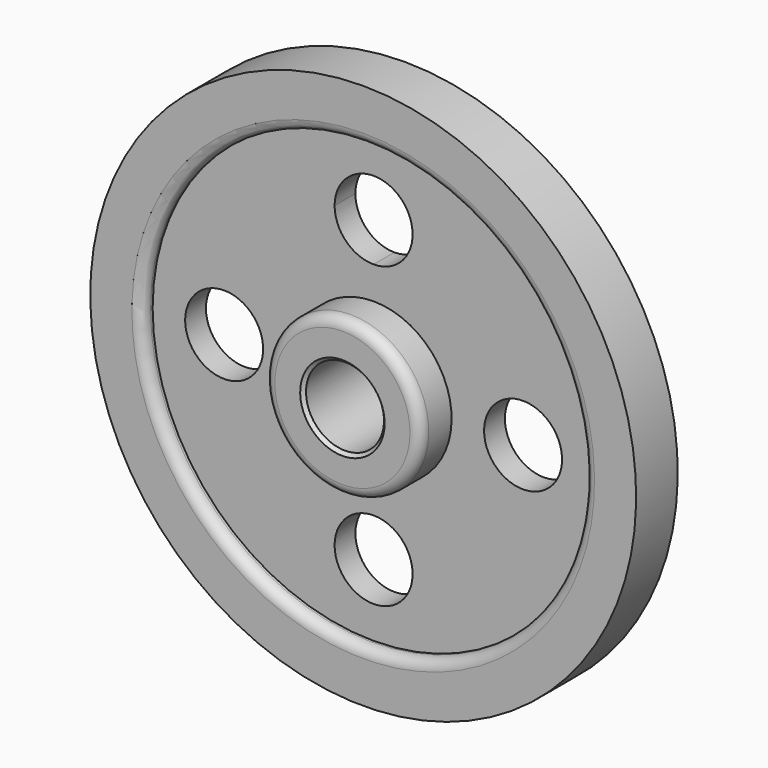
from build123d import *

# Parameters (mm, degrees)
F2_R     = 19.05
F3_DEPTH = 25.4
F4_R     = 5.08
F5_SIZE  = 1.5875
F6_R     = 5.08


with BuildPart() as f1:
    # F0 (on Right) → F1 (revolve)
    with BuildSketch(Plane.YZ):
        Polygon((-25.4, 19.05), (0, 19.05), (25.4, 19.05), (25.4, 38.1), (6.35, 38.1), (6.35, 107.95), (12.7, 107.95), (12.7, 133.35), (0, 133.35), (-12.7, 133.35), (-12.7, 107.95), (-6.35, 107.95), (-6.35, 38.1), (-25.4, 38.1), align=None)
    revolve(axis=Axis((0, 54.0893, 0), (0, 1, 0)))

    # F2 (on face) → F3 (cut)
    with BuildSketch(Plane(origin=(0, 6.35, 0), x_dir=(-1, 0, 0), z_dir=(0, 1, 0))):
        with Locations((-73.025, 0)):
            Circle(F2_R)
        with Locations((73.025, 0)):
            Circle(F2_R)
        with BuildLine():
            ThreePointArc((19.05, 73.025), (-13.470384, 86.495384), (0, 53.975))
            ThreePointArc((0, 53.975), (13.470384, 59.554616), (19.05, 73.025))
        make_face()
        with Locations((0, -73.025)):
            Circle(F2_R)
    extrude(amount=-F3_DEPTH, mode=Mode.SUBTRACT)

    # F4
    f4_edges = [f1.edges().sort_by_distance(p)[0] for p in [
        (0, -25.4, -38.1),
        (0, -12.7, -107.95),
    ]]
    fillet(f4_edges, radius=F4_R)

    # F5
    f5_edges = [f1.edges().sort_by_distance(p)[0] for p in [
        (0, -25.4, -19.05),
        (0, 0, 19.05),
        (0, 25.4, -19.05),
    ]]
    chamfer(f5_edges, length=F5_SIZE)

    # F6
    f6_edges = [f1.edges().sort_by_distance(p)[0] for p in [
        (0, 25.4, -38.1),
    ]]
    fillet(f6_edges, radius=F6_R)


solid = f1.part
